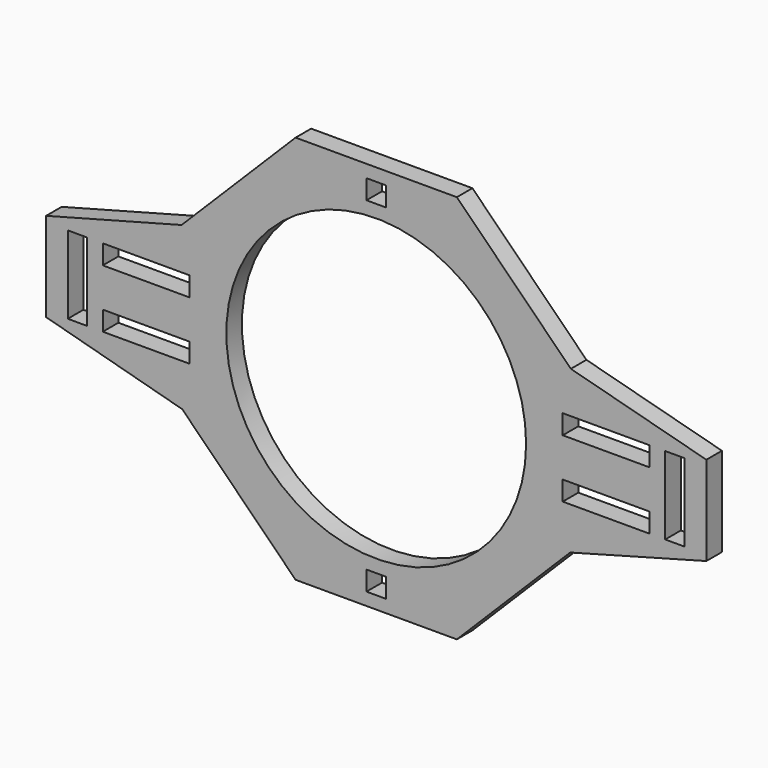
from build123d import *

# Parameters (mm, degrees)
F0_W     = 28.348149
F0_H     = 6.35
F0_W_2   = 6.35
F0_H_2   = 25.4
F0_R     = 48.895
F1_DEPTH = 6.35


with BuildPart() as f1:
    # F0 (on Front) → F1 (new body)
    with BuildSketch(Plane.XZ):
        Polygon((26.302561, 63.5), (-26.302561, 63.5), (-63.5, 26.302561), (-107.699501, 14.567526), (-107.699501, -14.531948), (-63.279638, -26.522923), (-26.302561, -63.5), (26.302561, -63.5), (63.279638, -26.522923), (107.699501, -14.531948), (107.699501, 14.567526), (63.5, 26.302561), align=None)
        with Locations((-75.024232, -9.525)):
            Rectangle(F0_W, F0_H, mode=Mode.SUBTRACT)
        with Locations((0, -56.1975)):
            Rectangle(F0_W_2, F0_H, mode=Mode.SUBTRACT)
        with Locations((75.024232, -9.525)):
            Rectangle(F0_W, F0_H, mode=Mode.SUBTRACT)
        with Locations((-97.453307, 0)):
            Rectangle(F0_W_2, F0_H_2, mode=Mode.SUBTRACT)
        with Locations((-75.024232, 9.525)):
            Rectangle(F0_W, F0_H, mode=Mode.SUBTRACT)
        Circle(F0_R, mode=Mode.SUBTRACT)
        with Locations((75.024232, 9.525)):
            Rectangle(F0_W, F0_H, mode=Mode.SUBTRACT)
        with Locations((97.453307, 0)):
            Rectangle(F0_W_2, F0_H_2, mode=Mode.SUBTRACT)
        with Locations((0, 56.1975)):
            Rectangle(F0_W_2, F0_H, mode=Mode.SUBTRACT)
    extrude(amount=F1_DEPTH)


solid = f1.part
